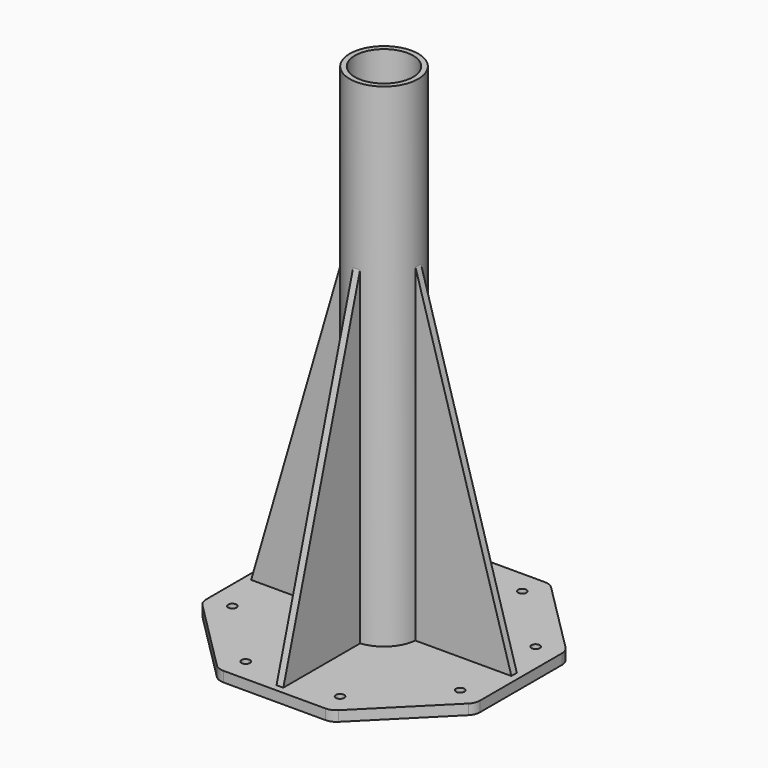
from build123d import *

# Parameters (mm, degrees)
F1_DEPTH = 19.05
F2_R     = 63.5
F2_R_2   = 53.975
F3_DEPTH = 914.4
F5_DEPTH = 6.35
F6_COUNT = 4
F8_D     = 15.4686
F9_R     = 25.4


with BuildPart() as f1:
    # F0 (on Top) → F1 (new body)
    with BuildSketch(Plane.XY):
        Polygon((105.2102448428, 254), (-105.2102448428, 254), (-254, 105.2102448428), (-254, -105.2102448428), (-105.2102448428, -254), (105.2102448428, -254), (254, -105.2102448428), (254, 105.2102448428), align=None)
    extrude(amount=F1_DEPTH)

    # F2 (on face) → F3 (join)
    with BuildSketch(Plane.XY.offset(19.05)):
        Circle(F2_R)
        Circle(F2_R_2, mode=Mode.SUBTRACT)
    extrude(amount=F3_DEPTH)

    # F8 (through all)
    with Locations(Plane.XY.offset(19.05)):
        with Locations((87.4814326387, -211.1988611321), (211.1988611321, -87.4814326387), (211.1988611321, 87.4814326387), (87.4814326387, 211.1988611321), (-87.4814326387, 211.1988611321), (-211.1988611321, 87.4814326387), (-211.1988611321, -87.4814326387), (-87.4814326387, -211.1988611321)):
            Hole(F8_D / 2)

    # F9
    f9_edges = [f1.edges().sort_by_distance(p)[0] for p in [
        (105.210245, -254, 9.525),
        (254, -105.210245, 9.525),
        (254, 105.210245, 9.525),
        (105.210245, 254, 9.525),
        (-105.210245, 254, 9.525),
        (-254, 105.210245, 9.525),
        (-254, -105.210245, 9.525),
        (-105.210245, -254, 9.525),
    ]]
    fillet(f9_edges, radius=F9_R)


with BuildPart() as f5:
    # F4 (on Front) → F5 (new body, symmetric)
    with BuildSketch(Plane.XZ):
        Polygon((241.3, 19.05), (63.5, 628.65), (63.5, 19.05), align=None)
    extrude(amount=F5_DEPTH, both=True)


with BuildPart() as f6_1:
    # F6: instance of F5
    add(f5.part.rotate(Axis((0, 0, 19.05), (0, 0, -1)), 1 * 360 / F6_COUNT))


with BuildPart() as f6_2:
    # F6: instance of F5
    add(f5.part.rotate(Axis((0, 0, 19.05), (0, 0, -1)), 2 * 360 / F6_COUNT))


with BuildPart() as f6_3:
    # F6: instance of F5
    add(f5.part.rotate(Axis((0, 0, 19.05), (0, 0, -1)), 3 * 360 / F6_COUNT))


solid = Compound([f1.part, f5.part, f6_1.part, f6_2.part, f6_3.part])
